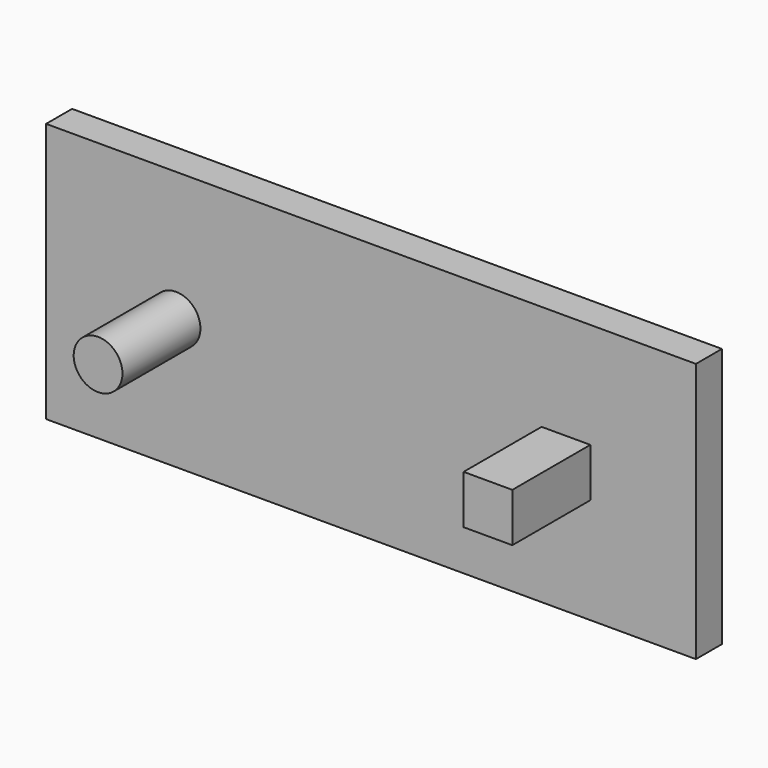
from build123d import *

# Parameters (mm, degrees)
F0_W     = 9.525
F0_H     = 9.525
F1_DEPTH = 25.4
F0_R     = 4.7625
F0_W_2   = 127
F0_H_2   = 50.8
F2_DEPTH = 6.35


with BuildPart() as f1:
    # F0 (on Front) → F1 (new body)
    with BuildSketch(Plane.XZ):
        with Locations((101.6, 25.4)):
            Rectangle(F0_W, F0_H)
    extrude(amount=F1_DEPTH)



with BuildPart() as f1b:
    # F0 (on Front) → F1, piece 2 (new body)
    with BuildSketch(Plane.XZ):
        with Locations((25.4, 25.4)):
            Circle(F0_R)
    extrude(amount=F1_DEPTH)


with BuildPart() as f1_1:
    add(f1.part)

    add(f1b.part)  # F2 merges F1b
    # F0 (on Front) → F2 (join)
    with BuildSketch(Plane.XZ):
        with Locations((63.5, 25.4)):
            Rectangle(F0_W_2, F0_H_2)
        with Locations((25.4, 25.4)):
            Circle(F0_R, mode=Mode.SUBTRACT)
        with Locations((101.6, 25.4)):
            Rectangle(F0_W, F0_H, mode=Mode.SUBTRACT)
    extrude(amount=F2_DEPTH)


solid = f1_1.part
